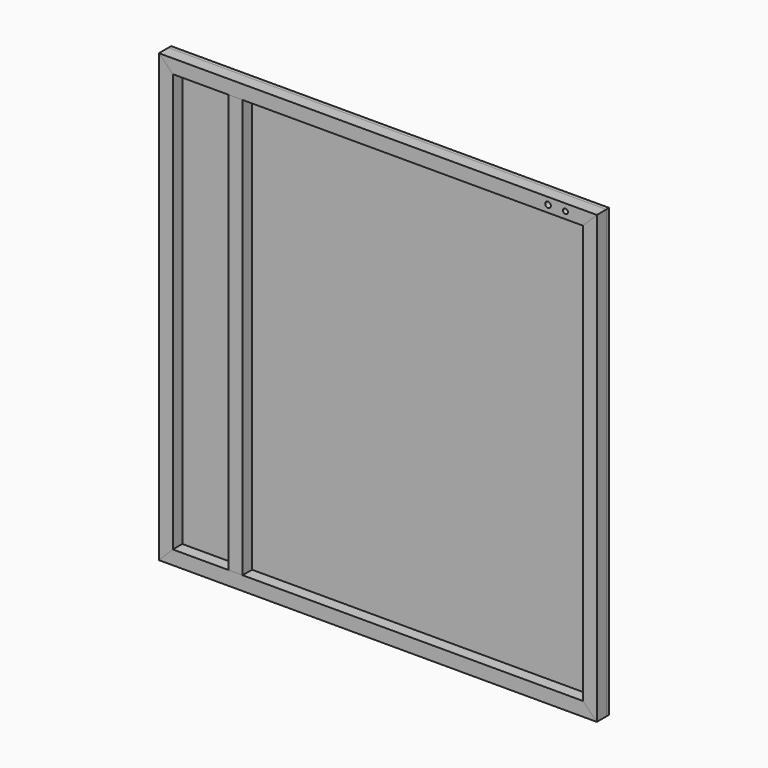
from build123d import *

# Parameters (mm, degrees)
F1_DEPTH = 25.4
F2_DEPTH = 25.4
F3_DEPTH = 25.4
F0_R     = 5.098877
F0_R_2   = 4.533593
F4_DEPTH = 25.4
F0_W     = 25.4
F0_H     = 762
F5_DEPTH = 25.4
F0_W_2   = 101.6
F0_W_3   = 619.76
F6_DEPTH = 6.35


with BuildPart() as f1:
    # F0 (on Front) → F1 (new body)
    with BuildSketch(Plane.XZ):
        Polygon((0, -812.8), (0, 0), (-25.4, -25.4), (-25.4, -787.4), align=None)
    extrude(amount=F1_DEPTH)


with BuildPart() as f2:
    # F0 (on Front) → F2 (new body)
    with BuildSketch(Plane.XZ):
        Polygon((-797.56, -812.8), (0, -812.8), (-25.4, -787.4), (-645.16, -787.4), (-670.56, -787.4), (-772.16, -787.4), align=None)
    extrude(amount=F2_DEPTH)


with BuildPart() as f3:
    # F0 (on Front) → F3 (new body)
    with BuildSketch(Plane.XZ):
        Polygon((-772.16, -25.4), (-797.56, 0), (-797.56, -812.8), (-772.16, -787.4), align=None)
    extrude(amount=F3_DEPTH)


with BuildPart() as f4:
    # F0 (on Front) → F4 (new body)
    with BuildSketch(Plane.XZ):
        Polygon((-25.4, -25.4), (0, 0), (-797.56, 0), (-772.16, -25.4), (-670.56, -25.4), (-645.16, -25.4), align=None)
        with Locations((-88.9, -12.7)):
            Circle(F0_R, mode=Mode.SUBTRACT)
        with Locations((-57.15, -12.7)):
            Circle(F0_R_2, mode=Mode.SUBTRACT)
    extrude(amount=F4_DEPTH)


with BuildPart() as f5:
    # F0 (on Front) → F5 (new body)
    with BuildSketch(Plane.XZ):
        with Locations((-657.86, -406.4)):
            Rectangle(F0_W, F0_H)
    extrude(amount=F5_DEPTH)


with BuildPart() as f6:
    # F0 (on Front) → F6 (new body)
    with BuildSketch(Plane.XZ):
        Polygon((-772.16, -25.4), (-797.56, 0), (-797.56, -812.8), (-772.16, -787.4), align=None)
        Polygon((-797.56, -812.8), (0, -812.8), (-25.4, -787.4), (-645.16, -787.4), (-670.56, -787.4), (-772.16, -787.4), align=None)
        with Locations((-721.36, -406.4)):
            Rectangle(F0_W_2, F0_H)
        with Locations((-657.86, -406.4)):
            Rectangle(F0_W, F0_H)
        with Locations((-335.28, -406.4)):
            Rectangle(F0_W_3, F0_H)
        Polygon((0, -812.8), (0, 0), (-25.4, -25.4), (-25.4, -787.4), align=None)
        Polygon((-25.4, -25.4), (0, 0), (-797.56, 0), (-772.16, -25.4), (-670.56, -25.4), (-645.16, -25.4), align=None)
        with Locations((-88.9, -12.7)):
            Circle(F0_R, mode=Mode.SUBTRACT)
        with Locations((-57.15, -12.7)):
            Circle(F0_R_2, mode=Mode.SUBTRACT)
    extrude(amount=F6_DEPTH)


with BuildPart() as f6_1:
    # F7: moved
    add(f6.part.moved(Location((0, 2.54, 0))))


solid = Compound([f1.part, f2.part, f3.part, f4.part, f5.part, f6_1.part])
